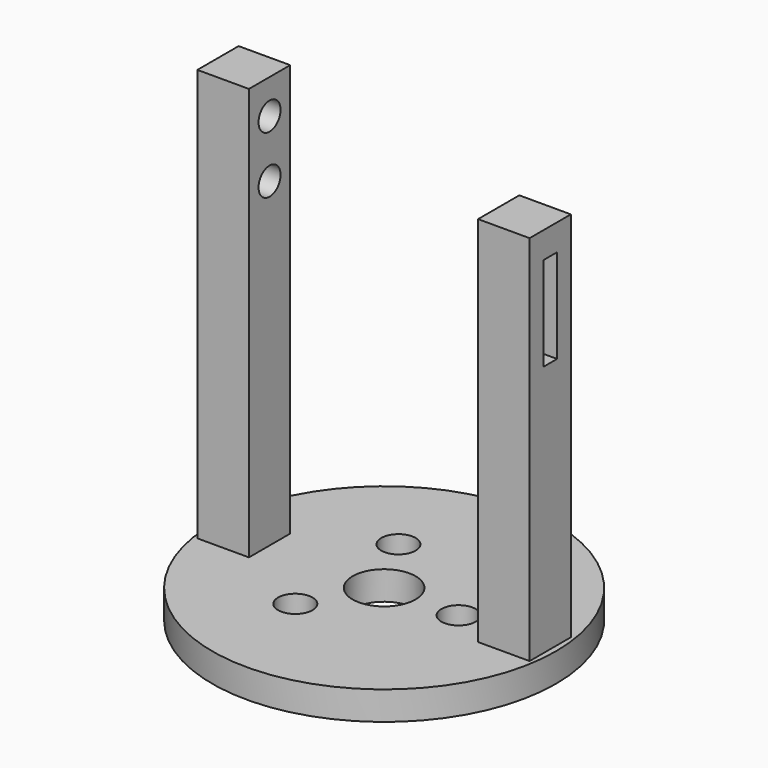
from build123d import *

# Parameters (mm, degrees)
CYLINDER005_R     = 1.5
CYLINDER005_DEPTH = 10
ARRAY007_COUNT    = 3
TUBE014_R         = 15
TUBE014_R_2       = 2.75
TUBE014_DEPTH     = 2.5
BOX001_W          = 10
BOX001_H          = 1.5
BOX001_DEPTH      = 8.2
BOX_W             = 4.5
BOX_H             = 4.5
BOX_DEPTH         = 32.5
CYLINDER026_R     = 1.2
CYLINDER026_DEPTH = 18.5
CYLINDER027_R     = 1.2
CYLINDER027_DEPTH = 18.5
BOX021_W          = 4.5
BOX021_H          = 4.5
BOX021_DEPTH      = 36


with BuildPart() as pistonconnectorscrewcutters:
    # Cylinder005 → Cylinder005 (new body)
    with BuildSketch(Plane(origin=(6.5, 0, 110), x_dir=(1, 0, 0), z_dir=(0, 0, 1))):
        Circle(CYLINDER005_R)
    extrude(amount=CYLINDER005_DEPTH)

    # Array007: PistonConnectorScrewCutters ×3 about axis
    array007_axis = Axis((0, 0, 0), (0, 0, 1))


with BuildPart() as pistonconnectorscrewcutters_1:
    add(pistonconnectorscrewcutters.part)
    for i in range(1, ARRAY007_COUNT):
        add(pistonconnectorscrewcutters.part.rotate(array007_axis, i * 360 / ARRAY007_COUNT))


with BuildPart() as obj1:
    # Tube014 → Tube014 (new body)
    with BuildSketch(Plane.XY.offset(115)):
        Circle(TUBE014_R)
        Circle(TUBE014_R_2, mode=Mode.SUBTRACT)
    extrude(amount=TUBE014_DEPTH)


with BuildPart() as obj2:
    # Box001 → Box001 (new body)
    with BuildSketch(Plane(origin=(7, -0.75, 139.5), x_dir=(1, 0, 0), z_dir=(0, 0, 1))):
        with Locations((5, 0.75)):
            Rectangle(BOX001_W, BOX001_H)
    extrude(amount=BOX001_DEPTH)


with BuildPart() as obj3:
    # Box → Box (new body)
    with BuildSketch(Plane(origin=(10, -2.25, 117.5), x_dir=(1, 0, 0), z_dir=(0, 0, 1))):
        with Locations((2.25, 2.25)):
            Rectangle(BOX_W, BOX_H)
    extrude(amount=BOX_DEPTH)

    # Cut001: cut obj2
    add(obj2.part, mode=Mode.SUBTRACT)

    # Fusion004: union obj1
    add(obj1.part)

    # Cut033: cut PistonConnectorScrewCutters
    add(pistonconnectorscrewcutters_1.part, mode=Mode.SUBTRACT)


with BuildPart() as safetybuttonshookscrewcutter:
    # Cylinder026 → Cylinder026 (new body)
    with BuildSketch(Plane(origin=(-28.5, 0, 150.5), x_dir=(0, 0, -1), z_dir=(1, 0, 0))):
        Circle(CYLINDER026_R)
    extrude(amount=CYLINDER026_DEPTH)


with BuildPart() as obj4:
    # Cylinder027 → Cylinder027 (new body)
    with BuildSketch(Plane(origin=(-28.5, 0, 145.5), x_dir=(0, 0, -1), z_dir=(1, 0, 0))):
        Circle(CYLINDER027_R)
    extrude(amount=CYLINDER027_DEPTH)

    # Fusion013: union SafetyButtonsHookScrewCutter
    add(safetybuttonshookscrewcutter.part)


with BuildPart() as pistonhooks:
    # Box021 → Box021 (new body)
    with BuildSketch(Plane(origin=(-14.5, -2.25, 117.5), x_dir=(1, 0, 0), z_dir=(0, 0, 1))):
        with Locations((2.25, 2.25)):
            Rectangle(BOX021_W, BOX021_H)
    extrude(amount=BOX021_DEPTH)

    # Cut050: cut obj4
    add(obj4.part, mode=Mode.SUBTRACT)

    # Fusion014: union obj3
    add(obj3.part)


solid = pistonhooks.part
